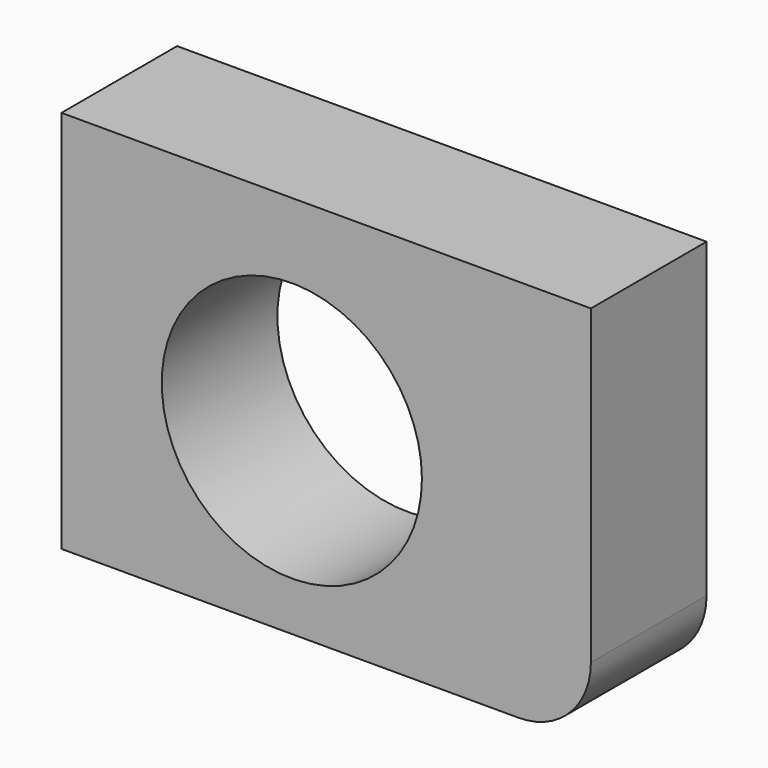
from build123d import *

# Parameters (mm, degrees)
F0_W     = 93.024962
F0_H     = 67.451157
F2_DEPTH = 25.4
F3_R     = 12.7
F4_R     = 22.855993
F5_DEPTH = 25.4


with BuildPart() as f2:
    # F0 (on Front) → F2 (new body)
    with BuildSketch(Plane.XZ):
        with Locations((46.512481, -33.725578)):
            Rectangle(F0_W, F0_H)
    extrude(amount=F2_DEPTH)

    # F3
    f3_edges = [f2.edges().sort_by_distance(p)[0] for p in [
        (93.024962, -12.7, -67.451157),
    ]]
    fillet(f3_edges, radius=F3_R)

    # F4 (on face) → F5 (cut)
    with BuildSketch(Plane.XZ):
        with Locations((40.479131, -36.015701)):
            Circle(F4_R)
    extrude(amount=F5_DEPTH, mode=Mode.SUBTRACT)


solid = f2.part
